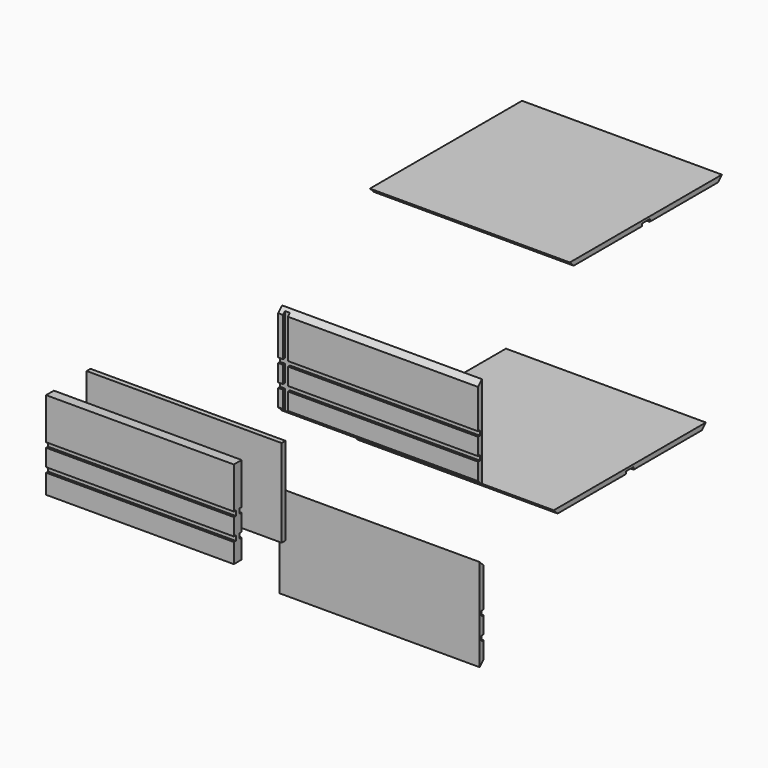
from build123d import *

# Parameters (mm, degrees)
F0_W      = 520.7
F0_H      = 241.3
F1_DEPTH  = 12.7
F3_DEPTH  = 520.701
F4_W      = 520.7
F4_H      = 12.6999966025
F5_DEPTH  = 6.35
F7_DEPTH  = 6.35
F8_W      = 520.7
F8_H      = 241.3
F9_DEPTH  = 12.7
F11_DEPTH = 524.7793882141
F12_W     = 520.7
F12_H     = 12.6999874115
F13_DEPTH = 6.35
F15_DEPTH = 6.35
F16_W     = 520.7
F16_H     = 12.7000109196
F17_DEPTH = 6.35
F18_W     = 529.9902928591
F18_H     = 12.7000011563
F19_DEPTH = 6.35
F20_W     = 25.4
F20_H     = 228.6
F21_DEPTH = 488.95
F22_W     = 488.95
F22_H     = 12.6999971449
F23_DEPTH = 6.35
F24_W     = 6.35
F24_H     = 12.6999971449
F25_DEPTH = 488.951
F26_W     = 6.35
F26_H     = 12.7
F27_DEPTH = 488.951
F28_W     = 495.3
F28_H     = 12.7
F29_DEPTH = 520.7
F31_DEPTH = 520.701
F33_DEPTH = 520.701
F34_W     = 495.3
F34_H     = 12.7
F35_DEPTH = 520.7
F37_DEPTH = 520.701
F39_DEPTH = 520.701
F40_W     = 12.7
F40_H     = 228.6
F41_DEPTH = 508


with BuildPart() as f1:
    # F0 (on Front) → F1 (new body)
    with BuildSketch(Plane.XZ):
        with Locations((469.2560246944, 144.2023208976)):
            Rectangle(F0_W, F0_H)
    extrude(amount=F1_DEPTH)

    # F2 (on face) → F3 (cut, through all)
    with BuildSketch(Plane.YZ.offset(729.6060246944)):
        Polygon((0, 23.5523208976), (-12.7, 36.2523208976), (-12.7, 23.5523208976), align=None)
        Polygon((-12.7, 264.8523208976), (-12.7, 252.1523208976), (0, 264.8523208976), align=None)
    extrude(amount=-F3_DEPTH, mode=Mode.SUBTRACT)

    # F4 (on face) → F5 (cut)
    with BuildSketch(Plane.XZ.offset(12.7)):
        with Locations((469.2560246944, 144.2023191988)):
            Rectangle(F4_W, F4_H)
    extrude(amount=-F5_DEPTH, mode=Mode.SUBTRACT)

    # F6 (on face) → F7 (cut)
    with BuildSketch(Plane.XZ.offset(12.7)):
        Polygon((221.6060246944, 270.978808403), (221.6060246944, 137.8523208976), (221.6060246944, 8.170215413), (234.3060246944, 8.170215413), (234.3060246944, 264.8905813694), align=None)
    extrude(amount=-F7_DEPTH, mode=Mode.SUBTRACT)

    # F18 (on face) → F19 (cut)
    with BuildSketch(Plane.XZ.offset(12.7)):
        with Locations((464.6108782649, 87.0523203194)):
            Rectangle(F18_W, F18_H)
    extrude(amount=-F19_DEPTH, mode=Mode.SUBTRACT)


with BuildPart() as f9:
    # F8 (on Front) → F9 (new body)
    with BuildSketch(Plane.XZ):
        with Locations((473.3344129086, -268.51490798)):
            Rectangle(F8_W, F8_H)
    extrude(amount=F9_DEPTH)

    # F10 (on face) → F11 (cut, through all)
    with BuildSketch(Plane.YZ.offset(733.6844129086)):
        Polygon((-12.7, -147.86490798), (0, -160.56490798), (0, -147.86490798), align=None)
        Polygon((0, -389.16490798), (0, -376.46490798), (-12.7, -389.16490798), align=None)
    extrude(amount=-F11_DEPTH, mode=Mode.SUBTRACT)

    # F12 (on face) → F13 (cut)
    with BuildSketch(Plane(origin=(0, 0, 0), x_dir=(-1, 0, 0), z_dir=(0, 1, 0))):
        with Locations((-473.3344129086, -268.5149142742)):
            Rectangle(F12_W, F12_H)
    extrude(amount=-F13_DEPTH, mode=Mode.SUBTRACT)

    # F14 (on face) → F15 (cut)
    with BuildSketch(Plane(origin=(0, 0, 0), x_dir=(-1, 0, 0), z_dir=(0, 1, 0))):
        Polygon((-720.9844129086, -249.4649205685), (-720.9844129086, -262.1649205685), (-720.9844129086, -380.863904953), (-708.2844129086, -380.863904953), (-708.2844129086, -127.3064613342), (-720.9844129086, -127.3064613342), align=None)
    extrude(amount=-F15_DEPTH, mode=Mode.SUBTRACT)

    # F16 (on face) → F17 (cut)
    with BuildSketch(Plane(origin=(0, 0, 0), x_dir=(-1, 0, 0), z_dir=(0, 1, 0))):
        with Locations((-473.3344129086, -325.6649025202)):
            Rectangle(F16_W, F16_H)
    extrude(amount=-F17_DEPTH, mode=Mode.SUBTRACT)


with BuildPart() as f21:
    # F20 (on Right) → F21 (new body)
    with BuildSketch(Plane.YZ):
        with Locations((-494.4428418159, 82.8483165085)):
            Rectangle(F20_W, F20_H)
    extrude(amount=F21_DEPTH)

    # F22 (on face) → F23 (cut)
    with BuildSketch(Plane.XZ.offset(507.1428418159)):
        with Locations((244.475, 82.848315081)):
            Rectangle(F22_W, F22_H)
    extrude(amount=-F23_DEPTH, mode=Mode.SUBTRACT)

    # F24 (on face) → F25 (cut, through all)
    with BuildSketch(Plane.YZ.offset(488.95)):
        with Locations((-484.9178418159, 82.848315081)):
            Rectangle(F24_W, F24_H)
    extrude(amount=-F25_DEPTH, mode=Mode.SUBTRACT)

    # F26 (on face) → F27 (cut, through all)
    with BuildSketch(Plane.YZ.offset(488.95)):
        with Locations((-503.9678418159, 25.6983165085)):
            Rectangle(F26_W, F26_H)
        with Locations((-484.9178418159, 25.6983165085)):
            Rectangle(F26_W, F26_H)
    extrude(amount=-F27_DEPTH, mode=Mode.SUBTRACT)


with BuildPart() as f29:
    # F28 (on Right) → F29 (new body)
    with BuildSketch(Plane.YZ):
        with Locations((794.7544778824, 235.8510153532)):
            Rectangle(F28_W, F28_H)
    extrude(amount=F29_DEPTH)

    # F30 (on face) → F31 (cut, through all)
    with BuildSketch(Plane.YZ.offset(520.7)):
        Polygon((559.8044778824, 229.5010153532), (547.1044778824, 242.2010153532), (547.1044778824, 229.5010153532), align=None)
        Polygon((1042.4044778824, 242.2010153532), (1029.7044778824, 229.5010153532), (1042.4044778824, 229.5010153532), align=None)
    extrude(amount=-F31_DEPTH, mode=Mode.SUBTRACT)

    # F32 (on face) → F33 (cut, through all)
    with BuildSketch(Plane.YZ.offset(520.7)):
        Polygon((782.0544778824, 229.5010153532), (794.7544778824, 229.5010153532), (807.4544778824, 229.5010153532), (807.4544778824, 235.8510153532), (782.0544778824, 235.8510153532), align=None)
    extrude(amount=-F33_DEPTH, mode=Mode.SUBTRACT)


with BuildPart() as f35:
    # F34 (on Right) → F35 (new body)
    with BuildSketch(Plane.YZ):
        with Locations((742.4543227196, -311.1834632397)):
            Rectangle(F34_W, F34_H)
    extrude(amount=F35_DEPTH)

    # F36 (on face) → F37 (cut, through all)
    with BuildSketch(Plane.YZ.offset(520.7)):
        Polygon((494.8043227196, -304.8334632397), (494.8043227196, -317.5334632397), (507.5043227196, -317.5334632397), align=None)
        Polygon((990.1043227196, -304.8334632397), (977.4043227196, -317.5334632397), (990.1043227196, -317.5334632397), align=None)
    extrude(amount=-F37_DEPTH, mode=Mode.SUBTRACT)

    # F38 (on face) → F39 (cut, through all)
    with BuildSketch(Plane.YZ.offset(520.7)):
        Polygon((729.7543227196, -317.5334632397), (742.4543227196, -317.5334632397), (755.1543227196, -317.5334632397), (755.1543227196, -311.1834632397), (729.7543227196, -311.1834632397), align=None)
        Polygon((729.7543227196, -317.5334632397), (742.4543227196, -317.5334632397), (755.1543227196, -317.5334632397), (755.1543227196, -311.1834632397), (729.7543227196, -311.1834632397), align=None)
    extrude(amount=-F39_DEPTH, mode=Mode.SUBTRACT)


with BuildPart() as f41:
    # F40 (on Right) → F41 (new body)
    with BuildSketch(Plane.YZ):
        with Locations((-368.8312279224, 84.4538868248)):
            Rectangle(F40_W, F40_H)
    extrude(amount=F41_DEPTH)


solid = Compound([f1.part, f9.part, f21.part, f29.part, f35.part, f41.part])
